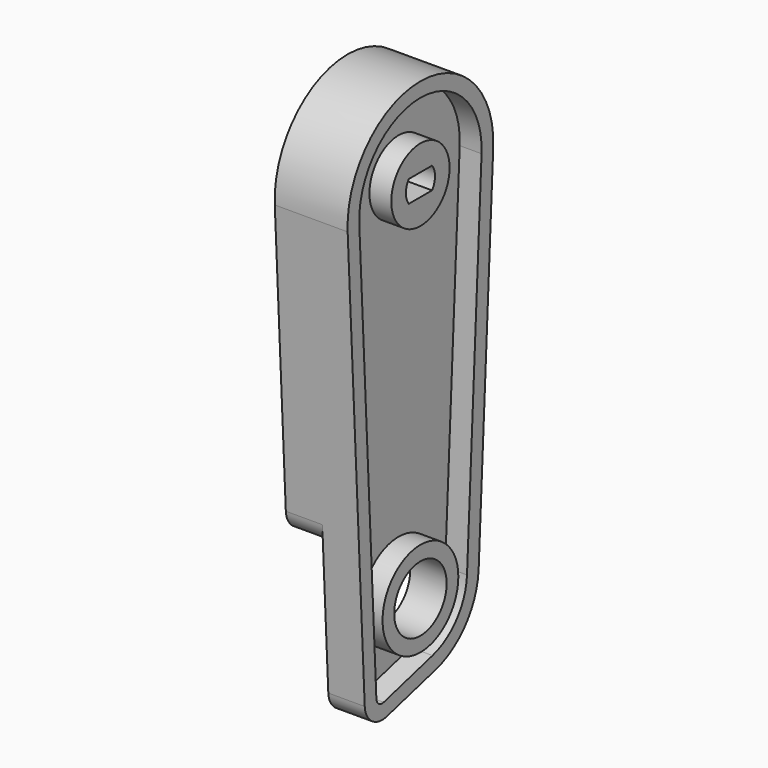
from build123d import *

# Parameters (mm, degrees)
F1_DEPTH  = 10
F3_DEPTH  = 5
F4_R      = 4.5
F5_DEPTH  = 10.001
F6_T      = -2
F7_R      = 1
F8_R      = 3
F10_DEPTH = 2
F11_R     = 5
F12_DEPTH = 10
F14_DEPTH = 10.001


with BuildPart() as f1:
    # F0 (on Right) → F1 (new body)
    with BuildSketch(Plane.YZ):
        with BuildLine():
            Line((9.9874921777, -50.5), (12.4843652221, -0.625))
            ThreePointArc((12.4843652221, -0.625), (0, 12.5), (-12.4843652221, -0.625))
            Line((-12.4843652221, -0.625), (-9.3685649734, -62.863061223))
            Line((-9.3685649734, -62.863061223), (2.588190451, -59.6592582629))
            ThreePointArc((2.588190451, -59.6592582629), (7.7788142654, -56.2841108061), (9.9874921777, -50.5))
        make_face()
    extrude(amount=F1_DEPTH)

    # F2 (on Right) → F3 (cut)
    with BuildSketch(Plane.YZ):
        with BuildLine():
            ThreePointArc((11, -50), (0, -39), (-11, -50))
            Line((-11, -50), (-11, -80))
            Line((-11, -80), (11, -80))
            Line((11, -80), (11, -50))
        make_face()
    extrude(amount=F3_DEPTH, mode=Mode.SUBTRACT)

    # F4 (on Right) → F5 (cut, through all)
    with BuildSketch(Plane.YZ):
        with Locations((0, -50)):
            Circle(F4_R)
    extrude(amount=F5_DEPTH, mode=Mode.SUBTRACT)

    # F6
    f6_openings = [f1.faces().sort_by_distance(p)[0] for p in [
        (0, 0, -14.700163),
        (10, -0.155944, -22.13999),
    ]]
    offset(amount=F6_T, openings=f6_openings, kind=Kind.INTERSECTION)

    # F7
    f7_edges = [f1.edges().sort_by_distance(p)[0] for p in [
        (3.5, 8.502341, -40.165866),
        (3.5, -8.502341, -40.165866),
        (8.5, -7.494852, -60.290449),
    ]]
    fillet(f7_edges, radius=F7_R)

    # F8
    f8_edges = [f1.edges().sort_by_distance(p)[0] for p in [
        (2.5, 10.216621, -45.923156),
        (2.5, -10.216621, -45.923156),
        (7.5, -9.368565, -62.863061),
    ]]
    fillet(f8_edges, radius=F8_R)

    # F9 (on face) → F10 (join)
    with BuildSketch(Plane(origin=(5, 0, 0), x_dir=(0, -1, 0), z_dir=(-1, 0, 0))):
        with BuildLine():
            Line((-10.4868667866, -0.525), (-8.5962115248, -38.2908092756))
            ThreePointArc((-8.5962115248, -38.2908092756), (-8.0535356457, -39.1307514702), (-7.054786428, -39.0807514702))
            ThreePointArc((-7.054786428, -39.0807514702), (0, -37), (7.054786428, -39.0807514702))
            ThreePointArc((7.054786428, -39.0807514702), (8.0535356457, -39.1307514702), (8.5962115248, -38.2908092756))
            Line((8.5962115248, -38.2908092756), (10.4868667866, -0.525))
            ThreePointArc((10.4868667866, -0.525), (0, 10.5), (-10.4868667866, -0.525))
        make_face()
    extrude(amount=-F10_DEPTH)

    # F11 (on Right) → F12 (join)
    with BuildSketch(Plane.YZ):
        Circle(F11_R)
    extrude(amount=F12_DEPTH)

    # F13 (on Right) → F14 (cut, through all)
    with BuildSketch(Plane.YZ):
        with BuildLine():
            Line((-2, -1.5), (2, -1.5))
            ThreePointArc((2, -1.5), (2.5, 0), (2, 1.5))
            Line((2, 1.5), (-2, 1.5))
            ThreePointArc((-2, 1.5), (-2.5, 0), (-2, -1.5))
        make_face()
    extrude(amount=F14_DEPTH, mode=Mode.SUBTRACT)


solid = f1.part
